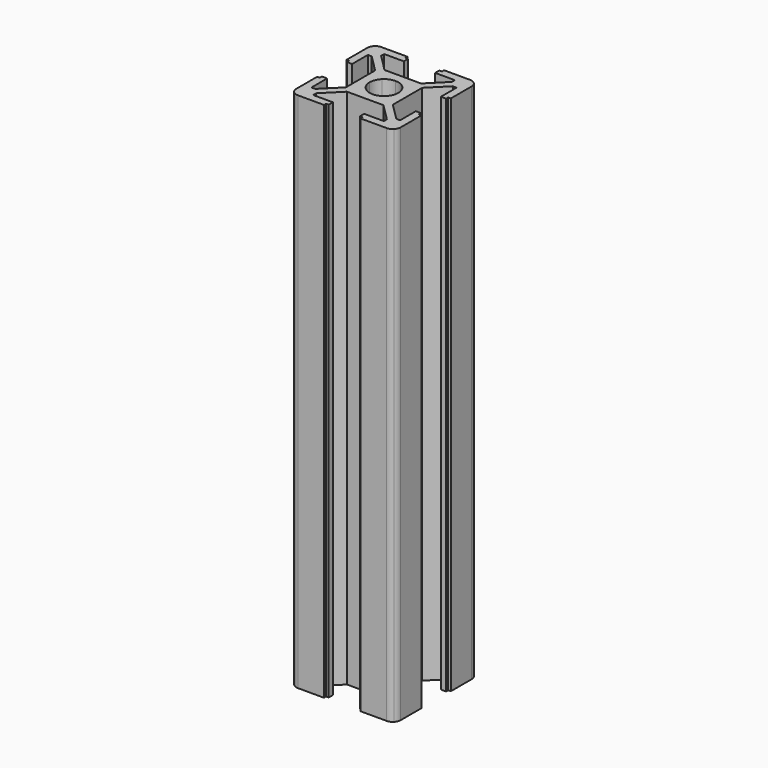
from build123d import *

# Parameters (mm, degrees)
F1_DEPTH = 100


with BuildPart() as f1:
    # F0 (on Top) → F1 (new body)
    with BuildSketch(Plane.XY):
        with BuildLine():
            Line((-5.698349, -4.52252), (-1.198349, -4.52252))
            Line((-1.198349, -4.52252), (1.301651, -4.52252))
            Line((1.301651, -4.52252), (4.569926, -7.790794))
            Line((4.569926, -7.790794), (4.569926, -8.52252))
            Line((4.569926, -8.52252), (0.801651, -8.52252))
            Line((0.801651, -8.52252), (0.801651, -9.52252))
            Line((0.801651, -9.52252), (1.301651, -9.52252))
            Line((1.301651, -9.52252), (1.301651, -10.02252))
            Line((1.301651, -10.02252), (3.365556, -10.02252))
            Line((3.365556, -10.02252), (6.301651, -10.02252))
            ThreePointArc((6.301651, -10.02252), (6.875677, -9.908339), (7.362312, -9.58318))
            Line((7.362312, -9.58318), (6.301651, -8.52252))
            Line((6.301651, -8.52252), (-0.253805, -1.967063))
            ThreePointArc((-0.253805, -1.967063), (-1.145969, -2.563188), (-2.198349, -2.77252))
            ThreePointArc((-2.198349, -2.77252), (-3.250728, -2.563188), (-4.142892, -1.967063))
            Line((-4.142892, -1.967063), (-10.698349, -8.52252))
            Line((-10.698349, -8.52252), (-11.759009, -9.58318))
            ThreePointArc((-11.759009, -9.58318), (-11.272374, -9.908339), (-10.698349, -10.02252))
            Line((-10.698349, -10.02252), (-7.762253, -10.02252))
            Line((-7.762253, -10.02252), (-5.698349, -10.02252))
            Line((-5.698349, -10.02252), (-5.698349, -9.52252))
            Line((-5.698349, -9.52252), (-5.198349, -9.52252))
            Line((-5.198349, -9.52252), (-5.198349, -8.52252))
            Line((-5.198349, -8.52252), (-8.966623, -8.52252))
            Line((-8.966623, -8.52252), (-8.966623, -7.790794))
            Line((-8.966623, -7.790794), (-5.698349, -4.52252))
        make_face()
        with BuildLine():
            ThreePointArc((-12.198349, -8.52252), (-12.084168, -9.096545), (-11.759009, -9.58318))
            Line((-11.759009, -9.58318), (-10.698349, -8.52252))
            Line((-10.698349, -8.52252), (-4.142892, -1.967063))
            ThreePointArc((-4.142892, -1.967063), (-4.739017, -1.074899), (-4.948349, -0.02252))
            ThreePointArc((-4.948349, -0.02252), (-4.739017, 1.02986), (-4.142892, 1.922024))
            Line((-4.142892, 1.922024), (-10.698349, 8.47748))
            Line((-10.698349, 8.47748), (-11.759009, 9.538141))
            ThreePointArc((-11.759009, 9.538141), (-12.084168, 9.051506), (-12.198349, 8.47748))
            Line((-12.198349, 8.47748), (-12.198349, 5.541385))
            Line((-12.198349, 5.541385), (-12.198349, 3.47748))
            Line((-12.198349, 3.47748), (-11.698349, 3.47748))
            Line((-11.698349, 3.47748), (-11.698349, 2.97748))
            Line((-11.698349, 2.97748), (-10.698349, 2.97748))
            Line((-10.698349, 2.97748), (-10.698349, 6.745755))
            Line((-10.698349, 6.745755), (-9.966623, 6.745755))
            Line((-9.966623, 6.745755), (-6.698349, 3.47748))
            Line((-6.698349, 3.47748), (-6.698349, -1.02252))
            Line((-6.698349, -1.02252), (-6.698349, -3.52252))
            Line((-6.698349, -3.52252), (-9.966623, -6.790794))
            Line((-9.966623, -6.790794), (-10.698349, -6.790794))
            Line((-10.698349, -6.790794), (-10.698349, -3.02252))
            Line((-10.698349, -3.02252), (-11.698349, -3.02252))
            Line((-11.698349, -3.02252), (-11.698349, -3.52252))
            Line((-11.698349, -3.52252), (-12.198349, -3.52252))
            Line((-12.198349, -3.52252), (-12.198349, -5.586424))
            Line((-12.198349, -5.586424), (-12.198349, -8.52252))
        make_face()
        with BuildLine():
            Line((-10.698349, 8.47748), (-4.142892, 1.922024))
            ThreePointArc((-4.142892, 1.922024), (-3.250728, 2.518149), (-2.198349, 2.72748))
            ThreePointArc((-2.198349, 2.72748), (-1.145969, 2.518149), (-0.253805, 1.922024))
            Line((-0.253805, 1.922024), (6.301651, 8.47748))
            Line((6.301651, 8.47748), (7.362312, 9.538141))
            ThreePointArc((7.362312, 9.538141), (6.875677, 9.8633), (6.301651, 9.97748))
            Line((6.301651, 9.97748), (3.365556, 9.97748))
            Line((3.365556, 9.97748), (1.301651, 9.97748))
            Line((1.301651, 9.97748), (1.301651, 9.47748))
            Line((1.301651, 9.47748), (0.801651, 9.47748))
            Line((0.801651, 9.47748), (0.801651, 8.47748))
            Line((0.801651, 8.47748), (4.569926, 8.47748))
            Line((4.569926, 8.47748), (4.569926, 7.745755))
            Line((4.569926, 7.745755), (1.301651, 4.47748))
            Line((1.301651, 4.47748), (-1.198349, 4.47748))
            Line((-1.198349, 4.47748), (-3.198349, 4.47748))
            Line((-3.198349, 4.47748), (-5.698349, 4.47748))
            Line((-5.698349, 4.47748), (-8.966623, 7.745755))
            Line((-8.966623, 7.745755), (-8.966623, 8.47748))
            Line((-8.966623, 8.47748), (-5.198349, 8.47748))
            Line((-5.198349, 8.47748), (-5.198349, 9.47748))
            Line((-5.198349, 9.47748), (-5.698349, 9.47748))
            Line((-5.698349, 9.47748), (-5.698349, 9.97748))
            Line((-5.698349, 9.97748), (-7.762253, 9.97748))
            Line((-7.762253, 9.97748), (-10.698349, 9.97748))
            ThreePointArc((-10.698349, 9.97748), (-11.272374, 9.8633), (-11.759009, 9.538141))
            Line((-11.759009, 9.538141), (-10.698349, 8.47748))
        make_face()
        with BuildLine():
            Line((6.301651, -8.52252), (7.362312, -9.58318))
            ThreePointArc((7.362312, -9.58318), (7.687471, -9.096545), (7.801651, -8.52252))
            Line((7.801651, -8.52252), (7.801651, -5.586424))
            Line((7.801651, -5.586424), (7.801651, -3.52252))
            Line((7.801651, -3.52252), (7.301651, -3.52252))
            Line((7.301651, -3.52252), (7.301651, -3.02252))
            Line((7.301651, -3.02252), (6.301651, -3.02252))
            Line((6.301651, -3.02252), (6.301651, -6.790794))
            Line((6.301651, -6.790794), (5.569926, -6.790794))
            Line((5.569926, -6.790794), (2.301651, -3.52252))
            Line((2.301651, -3.52252), (2.301651, -1.02252))
            Line((2.301651, -1.02252), (2.301651, 0.97748))
            Line((2.301651, 0.97748), (2.301651, 3.47748))
            Line((2.301651, 3.47748), (5.569926, 6.745755))
            Line((5.569926, 6.745755), (6.301651, 6.745755))
            Line((6.301651, 6.745755), (6.301651, 2.97748))
            Line((6.301651, 2.97748), (7.301651, 2.97748))
            Line((7.301651, 2.97748), (7.301651, 3.47748))
            Line((7.301651, 3.47748), (7.801651, 3.47748))
            Line((7.801651, 3.47748), (7.801651, 5.541385))
            Line((7.801651, 5.541385), (7.801651, 8.47748))
            ThreePointArc((7.801651, 8.47748), (7.687471, 9.051506), (7.362312, 9.538141))
            Line((7.362312, 9.538141), (6.301651, 8.47748))
            Line((6.301651, 8.47748), (-0.253805, 1.922024))
            ThreePointArc((-0.253805, 1.922024), (0.34232, 1.02986), (0.551651, -0.02252))
            ThreePointArc((0.551651, -0.02252), (0.34232, -1.074899), (-0.253805, -1.967063))
            Line((-0.253805, -1.967063), (6.301651, -8.52252))
        make_face()
    extrude(amount=F1_DEPTH)


solid = f1.part
